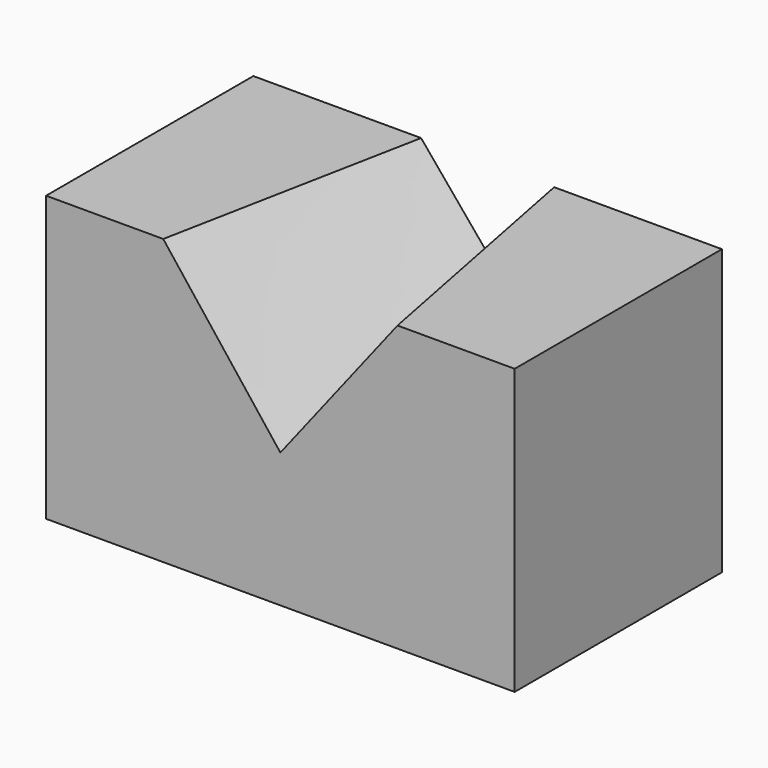
from build123d import *

# Parameters (mm, degrees)
F0_W     = 125.5133152008
F0_H     = 69.3925619125
F1_DEPTH = 76.2


with BuildPart() as f1:
    # F0 (on Top) → F1 (new body)
    with BuildSketch(Plane.XY):
        Rectangle(F0_W, F0_H)
    extrude(amount=F1_DEPTH)

    # F2 (on face) → F4 section 0
    with BuildSketch(Plane.XZ.offset(34.6962809563)):
        Polygon((31.3783288002, 76.2), (0, 76.2), (-31.3783288002, 76.2), (0, 36.0234603286), align=None)
    # F3 (on face) → F4 section 1
    with BuildSketch(Plane(origin=(0, 34.6962809563, 0), x_dir=(-1, 0, 0), z_dir=(0, 1, 0))):
        Polygon((0, 76.2), (-17.8221333772, 76.2), (0, 54.7935776412), (17.8221333772, 76.2), align=None)
    loft(mode=Mode.SUBTRACT)


solid = f1.part
